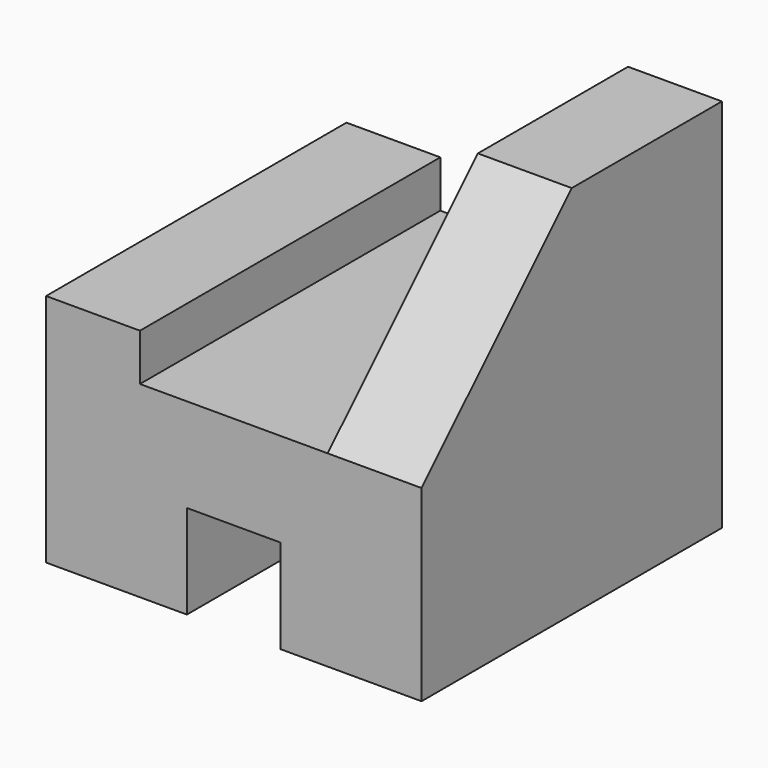
from build123d import *

# Parameters (mm, degrees)
F1_DEPTH = 101.6
F3_DEPTH = 25.4


with BuildPart() as f1:
    # F0 (on Front) → F1 (new body)
    with BuildSketch(Plane.XZ):
        Polygon((-38.1, 0), (0, 0), (0, 101.6), (-25.4, 101.6), (-25.4, 50.8), (-76.2, 50.8), (-76.2, 63.5), (-101.6, 63.5), (-101.6, 0), (-63.5, 0), (-63.5, 25.4), (-38.1, 25.4), align=None)
    extrude(amount=F1_DEPTH)

    # F2 (on face) → F3 (cut)
    with BuildSketch(Plane.YZ):
        Polygon((-101.6, 101.6), (-101.6, 50.8), (-50.8, 101.6), align=None)
    extrude(amount=-F3_DEPTH, mode=Mode.SUBTRACT)


solid = f1.part
